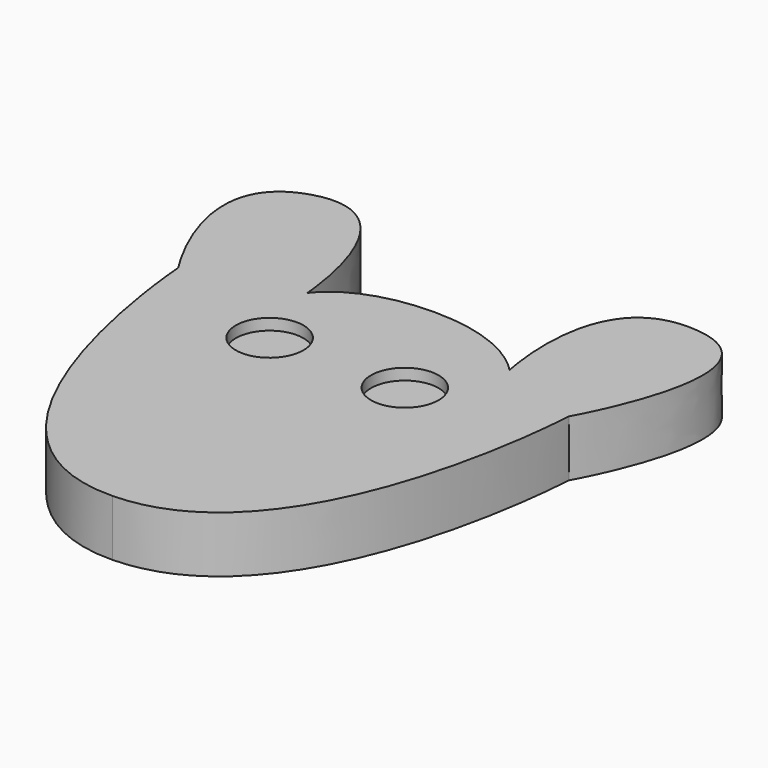
from build123d import *

# Parameters (mm, degrees)
CYLINDER001_R     = 6
CYLINDER001_DEPTH = 10
CYLINDER_R        = 6
CYLINDER_DEPTH    = 10
EXTRUDE_DEPTH     = 10


with BuildPart() as cilindro001:
    # Cylinder001 → Cylinder001 (new body)
    with BuildSketch(Plane(origin=(54, -39, 8), x_dir=(1, 0, 0), z_dir=(0, 0, 1))):
        Circle(CYLINDER001_R)
    extrude(amount=CYLINDER001_DEPTH)


with BuildPart() as fusion:
    # Cylinder → Cylinder (new body)
    with BuildSketch(Plane(origin=(30, -39, 8), x_dir=(1, 0, 0), z_dir=(0, 0, 1))):
        Circle(CYLINDER_R)
    extrude(amount=CYLINDER_DEPTH)

    # Fusion: union Cilindro001
    add(cilindro001.part)


with BuildPart() as cut:
    # path4136 → Extrude (new body)
    with BuildSketch(Plane(origin=(42.376579, -44.354878, 0), x_dir=(0, -1, 0), z_dir=(0, 0, -1))):
        with BuildLine():
            add(Edge.make_bspline(
                [(-13.85455, 35.407203), (-13.85455, 35.407203), (-37.333463, 51.129846), (-42.46778, 34.856929)],
                knots=[0, 0, 0, 0, 1, 1, 1, 1], degree=3))
            add(Edge.make_bspline(
                [(-42.46778, 34.856929), (-47.602099, 18.584013), (-19.100017, 16.70568), (-19.100017, 16.70568)],
                knots=[0, 0, 0, 0, 1, 1, 1, 1], degree=3))
            add(Edge.make_bspline(
                [(-19.100017, 16.70568), (-19.100017, 16.70568), (-25.576689, 12.757134), (-25.65703, -0.546311)],
                knots=[0, 0, 0, 0, 1, 1, 1, 1], degree=3))
            add(Edge.make_bspline(
                [(-25.65703, -0.546311), (-25.73737, -13.849756), (-18.52984, -19.647173), (-18.52984, -19.647173)],
                knots=[0, 0, 0, 0, 1, 1, 1, 1], degree=3))
            add(Edge.make_bspline(
                [(-18.52984, -19.647173), (-18.52984, -19.647173), (-45.927429, -13.606641), (-44.129391, -32.51663)],
                knots=[0, 0, 0, 0, 1, 1, 1, 1], degree=3))
            add(Edge.make_bspline(
                [(-44.129391, -32.51663), (-42.331353, -51.426623), (-12.828091, -34.756809), (-12.828091, -34.756809)],
                knots=[0, 0, 0, 0, 1, 1, 1, 1], degree=3))
            add(Edge.make_bspline(
                [(-12.828091, -34.756809), (-12.828091, -34.756809), (44.732088, -31.969997), (45.329759, -0.261224)],
                knots=[0, 0, 0, 0, 1, 1, 1, 1], degree=3))
            add(Edge.make_bspline(
                [(45.329759, -0.261224), (45.927429, 31.447549), (-13.85455, 35.407203), (-13.85455, 35.407203)],
                knots=[0, 0, 0, 0, 1, 1, 1, 1], degree=3))
        make_face()
    extrude(amount=-EXTRUDE_DEPTH)

    # Cut: cut Fusion
    add(fusion.part, mode=Mode.SUBTRACT)


with BuildPart() as cut_1:
    # Cut placement: moved
    add(cut.part.moved(Location((-42, 0, 0))))


solid = cut_1.part
